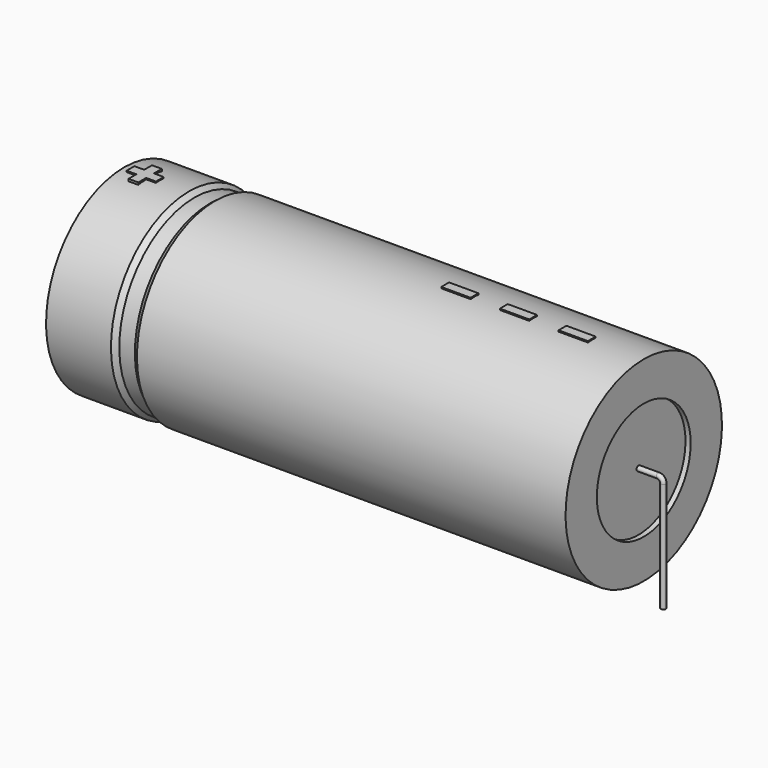
from build123d import *

# Parameters (mm, degrees)
SKETCH_R    = 0.45
SKETCH004_W = 5.25
SKETCH004_H = 1.75
PAD_DEPTH   = 17.675


with BuildPart() as sweep_body:
    # Sweep: sweep along a path in Sketch001
    with BuildLine(Plane.XZ) as sweep_path:
        Line((0, -3), (0, 16.7))
        ThreePointArc((0, 16.7), (0.263601, 17.336393), (0.899993, 17.6))
        Line((0.899993, 17.6), (99.1, 17.6))
        ThreePointArc((99.1, 17.6), (99.736396, 17.336396), (100, 16.7))
        Line((100, 16.7), (100, -3))
    # Sketch → Sweep (sweep)
    with BuildSketch(Plane.XY.offset(-2)):
        Circle(SKETCH_R)
    sweep(path=sweep_path.line)


with BuildPart() as revolution:
    # Sketch002 → Revolution (revolve)
    with BuildSketch(Plane.XZ):
        Polygon((3.5, 35.1), (3.5, 28.1), (96.5, 28.1), (96.5, 35.1), (19.775, 35.1), (18.845, 34.4), (16.055, 34.4), (15.125, 35.1), align=None)
    revolve(axis=Axis((6.97588, 0, 17.6), (1, 0, 0)))


with BuildPart() as revolution001:
    # Sketch003 → Revolution001 (revolve)
    with BuildSketch(Plane.XZ):
        Polygon((4.43, 34.4), (9.08, 34.4), (9.08, 19.35), (90.92, 19.35), (90.92, 34.4), (95.57, 34.4), (95.57, 17.6), (4.43, 17.6), align=None)
    revolve(axis=Axis((6.97588, 0, 17.6), (1, 0, 0)))


with BuildPart() as pad:
    # Sketch004 → Pad (new body)
    with BuildSketch(Plane.XY.offset(17.6)):
        with Locations((84.575, 0)):
            Rectangle(SKETCH004_W, SKETCH004_H)
        with Locations((74.075, 0)):
            Rectangle(SKETCH004_W, SKETCH004_H)
        with Locations((63.575, 0)):
            Rectangle(SKETCH004_W, SKETCH004_H)
        Polygon((6.366, 0.875), (4.616, 0.875), (4.616, -0.875), (6.366, -0.875), (6.366, -2.625), (8.116, -2.625), (8.116, -0.875), (9.866, -0.875), (9.866, 0.875), (8.116, 0.875), (8.116, 2.625), (6.366, 2.625), align=None)
    extrude(amount=PAD_DEPTH)


solid = Compound([sweep_body.part, revolution.part, revolution001.part, pad.part])
